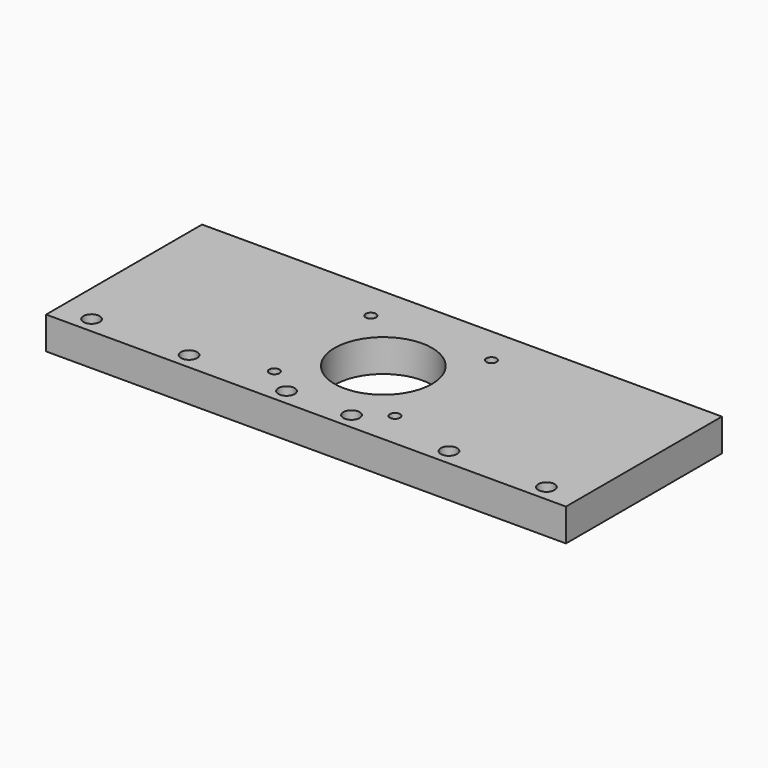
from build123d import *

# Parameters (mm, degrees)
F0_W     = 203.2
F0_H     = 76.2
F0_R     = 1.99898
F0_R_2   = 19.05
F1_DEPTH = 12.7
F2_R     = 3.175
F3_DEPTH = 12.701


with BuildPart() as f1:
    # F0 (on Top) → F1 (new body)
    with BuildSketch(Plane.XY):
        Rectangle(F0_W, F0_H)
        with Locations((-23.749, -23.9014)):
            Circle(F0_R, mode=Mode.SUBTRACT)
        with Locations((0, -0.3302)):
            Circle(F0_R_2, mode=Mode.SUBTRACT)
        with Locations((23.3934, -23.9014)):
            Circle(F0_R, mode=Mode.SUBTRACT)
        with Locations((-23.749, 23.241)):
            Circle(F0_R, mode=Mode.SUBTRACT)
        with Locations((23.3934, 23.241)):
            Circle(F0_R, mode=Mode.SUBTRACT)
    extrude(amount=F1_DEPTH)

    # F2 (on face) → F3 (cut, through all)
    with BuildSketch(Plane.XY.offset(12.7)):
        with Locations((-88.9, -31.75)):
            Circle(F2_R)
        with Locations((-50.8, -31.75)):
            Circle(F2_R)
        with Locations((-12.7, -31.75)):
            Circle(F2_R)
        with Locations((12.7, -31.75)):
            Circle(F2_R)
        with Locations((50.8, -31.75)):
            Circle(F2_R)
        with Locations((88.9, -31.75)):
            Circle(F2_R)
    extrude(amount=-F3_DEPTH, mode=Mode.SUBTRACT)


solid = f1.part
